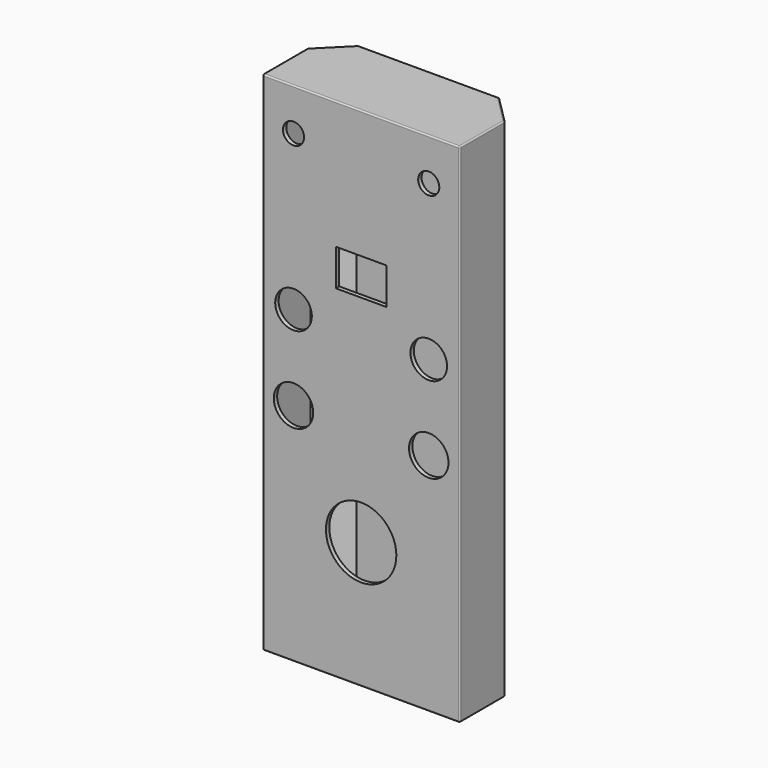
from build123d import *

# Parameters (mm, degrees)
F1_DEPTH  = 1800
F2_R      = 5
F3_W      = 90
F3_H      = 130
F4_DEPTH  = 25
F6_DEPTH  = 1790
F7_R      = 37.5
F7_R_2    = 65
F7_R_3    = 70
F8_DEPTH  = 15
F10_START = 1775
F10_DEPTH = 25


with BuildPart() as f1:
    # F0 (on Top) → F1 (new body)
    with BuildSketch(Plane.XY):
        Polygon((-350, -150), (350, -150), (350, 50), (250, 150), (0, 150), (-250, 150), (-350, 50), align=None)
    extrude(amount=F1_DEPTH)

    # F2
    f2_edges = [f1.edges().sort_by_distance(p)[0] for p in [
        (-350, -150, 900),
        (0, -150, 1800),
        (350, -150, 900),
        (0, -150, 0),
        (350, -50, 0),
        (-350, -50, 0),
        (-300, 100, 0),
        (0, 150, 0),
        (300, 100, 0),
        (350, 50, 900),
        (250, 150, 900),
        (300, 100, 1800),
        (0, 150, 1800),
        (350, -50, 1800),
        (-300, 100, 1800),
        (-350, -50, 1800),
        (-350, 50, 900),
        (-250, 150, 900),
    ]]
    fillet(f2_edges, radius=F2_R)

    # F3 (on face) → F4 (cut)
    with BuildSketch(Plane.XZ.offset(150)):
        with Locations((-45, 1280)):
            Rectangle(F3_W, F3_H)
        with Locations((45, 1280)):
            Rectangle(F3_W, F3_H)
    extrude(amount=-F4_DEPTH, mode=Mode.SUBTRACT)

    # F5 (on face) → F6 (cut)
    with BuildSketch(Plane.XY.offset(1800)):
        Polygon((335, 43.7867965644), (243.7867965644, 135), (-243.7867965644, 135), (-335, 43.7867965644), (-335, -135), (335, -135), align=None)
    extrude(amount=-F6_DEPTH, mode=Mode.SUBTRACT)

    # F7 (on face) → F8 (cut, through all)
    with BuildSketch(Plane.XZ.offset(150)):
        with Locations((240, 1650)):
            Circle(F7_R)
        with Locations((240, 1100)):
            Circle(F7_R_2)
        with BuildLine():
            ThreePointArc((125, 450), (88.3883476483, 538.3883476483), (0, 575))
            Line((0, 575), (0, 325))
            ThreePointArc((0, 325), (88.3883476483, 361.6116523517), (125, 450))
        make_face()
        with BuildLine():
            Line((0, 325), (0, 575))
            ThreePointArc((0, 575), (-125, 450), (0, 325))
        make_face()
        with Locations((240, 800)):
            Circle(F7_R_3)
        with Locations((-240, 1650)):
            Circle(F7_R)
        with Locations((-240, 1100)):
            Circle(F7_R_2)
        with Locations((-240, 800)):
            Circle(F7_R_3)
    extrude(amount=-F8_DEPTH, mode=Mode.SUBTRACT)

    # F9 (on Top) → F10 (join)
    with BuildSketch(Plane.XY.offset(F10_START)):
        Polygon((340, 45.8578643763), (245.8578643763, 140), (-245.8578643763, 140), (-340, 45.8578643763), (-340, -140), (340, -140), align=None)
    extrude(amount=F10_DEPTH)


solid = f1.part
